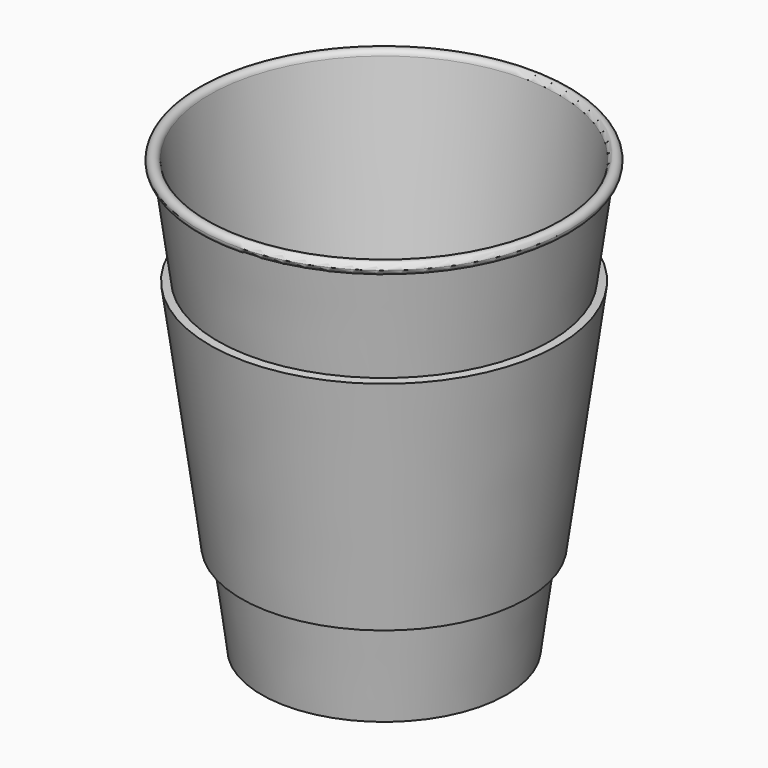
from build123d import *


with BuildPart() as f1:
    # F0 (on Front) → F1 (revolve)
    with BuildSketch(Plane.XZ):
        with BuildLine():
            Line((47.2396692276, 57.7278679256), (47.0381379224, 56.2346753748))
            ThreePointArc((47.0381379224, 56.2346753748), (48.2312803809, 56.5934314217), (48.7464004115, 57.7278679256))
            ThreePointArc((48.7464004115, 57.7278679256), (47.3406620016, 59.2312106411), (45.7464766769, 57.9293992308))
            Line((45.7464766769, 57.9293992308), (47.2396692276, 57.7278679256))
        make_face()
    revolve(axis=Axis((0, 0, 0), (0, 0, 1)))


with BuildPart() as f1b:
    # F0 (on Front) → F1, piece 2 (revolve)
    with BuildSketch(Plane.XZ):
        Polygon((45.5749366056, 29.9456361477), (43.5272923705, 30.2219999798), (35.2801680012, -30.8828723325), (37.3278122364, -31.1592361646), align=None)
        with BuildLine():
            Line((35.2801680012, -30.8828723325), (43.5272923705, 30.2219999798))
            Line((43.5272923705, 30.2219999798), (47.0381379224, 56.2346753748))
            ThreePointArc((47.0381379224, 56.2346753748), (46.0413184968, 56.8145254999), (45.7464766769, 57.9293992308))
            Line((45.7464766769, 57.9293992308), (30.5071964503, -54.9819903256))
            Line((30.5071964503, -54.9819903256), (32.0275890209, -54.9819903256))
            Line((32.0275890209, -54.9819903256), (35.2801680012, -30.8828723325))
        make_face()
        Polygon((45.5749366056, 29.9456361477), (43.5272923705, 30.2219999798), (35.2801680012, -30.8828723325), (37.3278122364, -31.1592361646), align=None)
    revolve(axis=Axis((0, 0, 0), (0, 0, 1)))


solid = Compound([f1.part, f1b.part])
